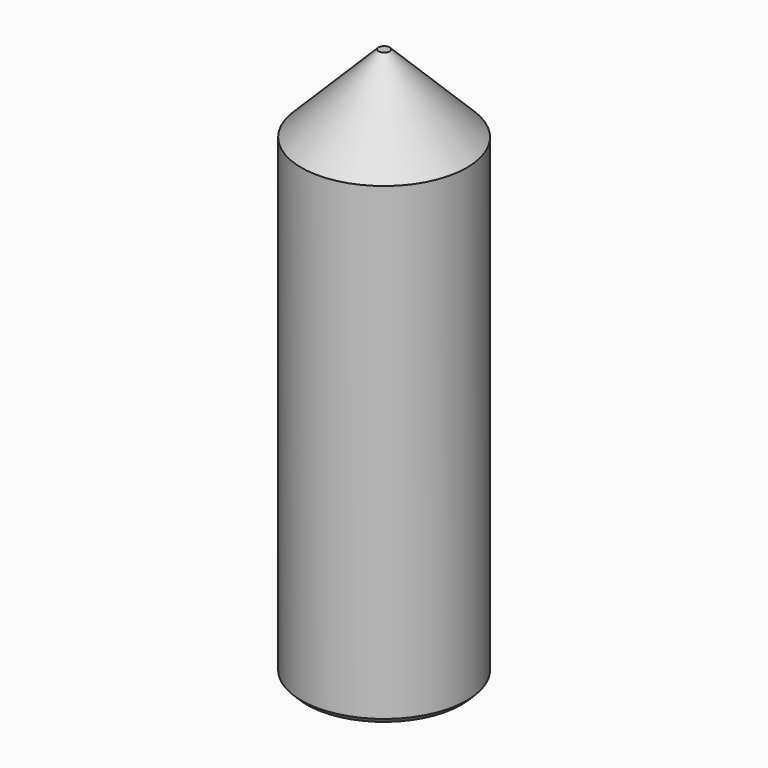
from build123d import *

# Parameters (mm, degrees)
SKETCH028_R     = 1.5
PAD013_DEPTH    = 10
CHAMFER003_SIZE = 1.4
POCKET014_DEPTH = 1.5
CHAMFER002_SIZE = 0.1


with BuildPart() as part:
    # Sketch028 → Pad013 (new body)
    with BuildSketch(Plane.XY):
        Circle(SKETCH028_R)
    extrude(amount=PAD013_DEPTH)

    # Chamfer003
    chamfer003_edges = [part.edges().sort_by_distance(p)[0] for p in [
        (-1.5, 0, 10),
    ]]
    chamfer(chamfer003_edges, length=CHAMFER003_SIZE)

    # Sketch027 → Pocket014 (cut)
    with BuildSketch(Plane.XY):
        Polygon((0.433013, -0.75), (0.866025, 0), (0.433013, 0.75), (-0.433013, 0.75), (-0.866025, 0), (-0.433013, -0.75), align=None)
    extrude(amount=POCKET014_DEPTH, mode=Mode.SUBTRACT)

    # Chamfer002
    chamfer002_edges = [part.edges().sort_by_distance(p)[0] for p in [
        (-1.5, 0, 0),
    ]]
    chamfer(chamfer002_edges, length=CHAMFER002_SIZE)


solid = part.part
